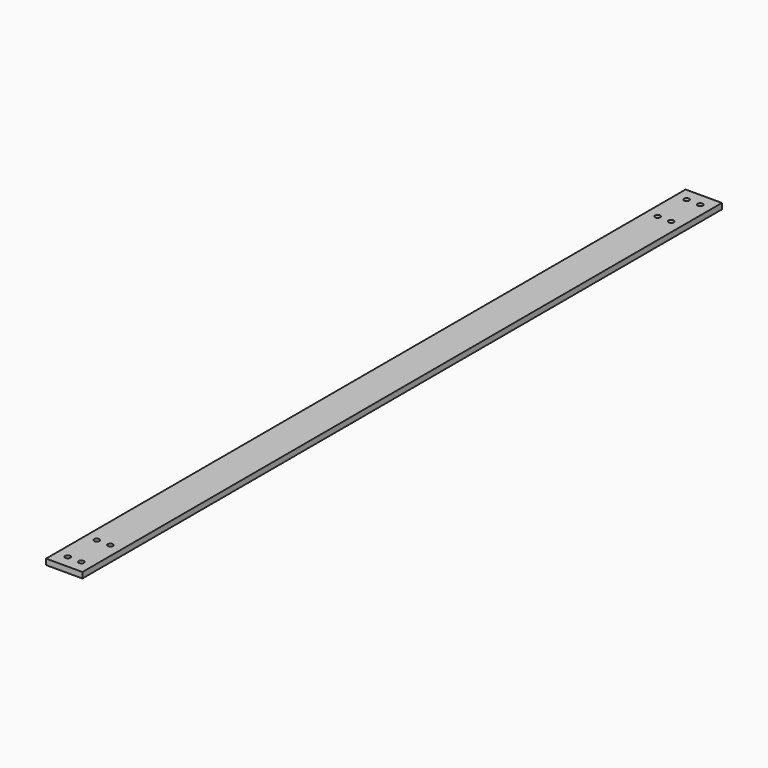
from build123d import *

# Parameters (mm, degrees)
F0_W     = 25.4
F0_H     = 4
F1_DEPTH = 279.4
F3_D     = 3.61


with BuildPart() as f1:
    # F0 (on Front) → F1 (new body, symmetric)
    with BuildSketch(Plane.XZ):
        Rectangle(F0_W, F0_H)
    extrude(amount=F1_DEPTH, both=True)

    # F3 (through all)
    with Locations(Plane.XY.offset(2)):
        with Locations((-4.75, -270.4), (-4.75, -245), (4.75, -245), (4.75, -270.4), (-4.75, 245), (4.75, 245), (4.75, 270.4), (-4.75, 270.4)):
            Hole(F3_D / 2)


solid = f1.part
